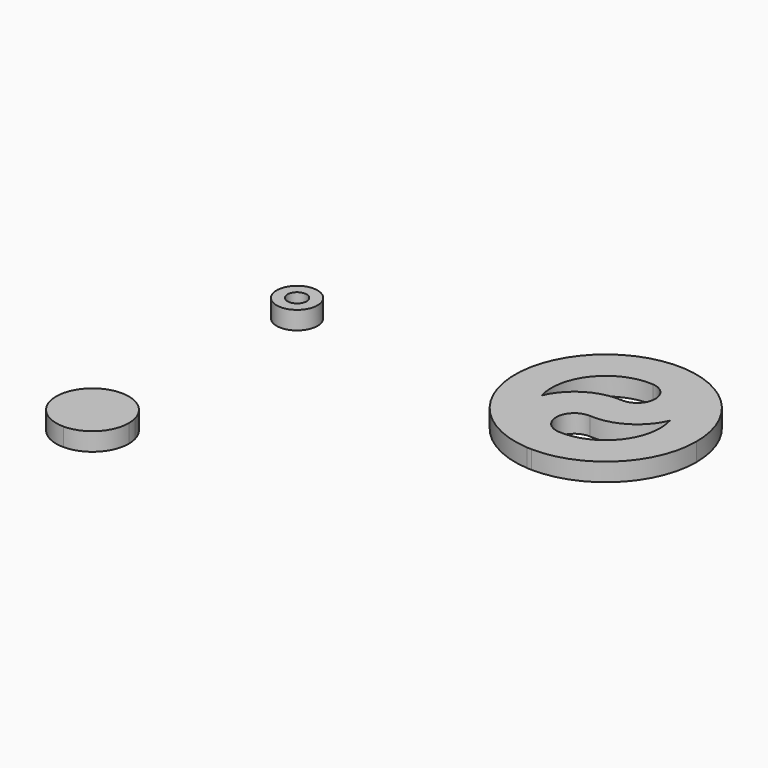
from build123d import *

# Parameters (mm, degrees)
F0_R     = 5.622862
F0_R_2   = 2.622862
F1_DEPTH = 5


with BuildPart() as f1:
    # F0 (on Top) → F1 (new body)
    with BuildSketch(Plane.XY):
        with Locations((-83.946779, 28.06069)):
            Circle(F0_R)
        with Locations((-83.946779, 28.06069)):
            Circle(F0_R_2, mode=Mode.SUBTRACT)
        with BuildLine():
            ThreePointArc((-76.056312, -37.682603), (-79.615046, -32.276909), (-85.738771, -30.182603))
            ThreePointArc((-85.738771, -30.182603), (-80.738771, -35.182603), (-85.738771, -40.182603))
            ThreePointArc((-85.738771, -40.182603), (-90.738771, -45.182603), (-85.738771, -50.182603))
            ThreePointArc((-85.738771, -50.182603), (-78.667703, -47.253671), (-75.738771, -40.182603))
            ThreePointArc((-75.738771, -40.182603), (-75.818474, -38.92256), (-76.056312, -37.682603))
        make_face()
        with BuildLine():
            ThreePointArc((-85.738771, -40.182603), (-80.738771, -35.182603), (-85.738771, -30.182603))
            ThreePointArc((-85.738771, -30.182603), (-95.738771, -40.182603), (-85.738771, -50.182603))
            ThreePointArc((-85.738771, -50.182603), (-90.738771, -45.182603), (-85.738771, -40.182603))
        make_face()
        with BuildLine():
            ThreePointArc((15.429841, 42.199068), (17.8063, 20.333006), (-1.339583, 9.506769))
            ThreePointArc((-1.339583, 9.506769), (-10.641535, 20.159172), (0.010867, 29.461124))
            ThreePointArc((0.010867, 29.461124), (10.663269, 38.763077), (1.361316, 49.41548))
            ThreePointArc((1.361316, 49.41548), (-17.784567, 38.589243), (-15.408108, 16.723181))
            ThreePointArc((-15.408108, 16.723181), (-10.629699, 8.272704), (-1.677196, 4.518181))
            ThreePointArc((-1.677196, 4.518181), (-1.042922, 4.488725), (-0.40797, 4.486138))
            Line((-0.40797, 4.486138), (-0.408094, 4.464635))
            ThreePointArc((-0.408094, 4.464635), (17.539785, 11.635945), (25.010867, 29.461124))
            ThreePointArc((25.010867, 29.461124), (18.275608, 46.531544), (1.698928, 54.404068))
            ThreePointArc((1.698928, 54.404068), (10.651432, 50.649546), (15.429841, 42.199068))
        make_face()
        with BuildLine():
            ThreePointArc((0.348479, 34.449713), (-8.477869, 32.288206), (-14.436605, 25.427448))
            ThreePointArc((-14.436605, 25.427448), (-11.623869, 38.928592), (1.023704, 44.426891))
            ThreePointArc((1.023704, 44.426891), (5.67468, 39.10069), (0.348479, 34.449713))
        make_face(mode=Mode.SUBTRACT)
        with BuildLine():
            ThreePointArc((0.010867, 29.461124), (-10.641535, 20.159172), (-1.339583, 9.506769))
            ThreePointArc((-1.339583, 9.506769), (17.8063, 20.333006), (15.429841, 42.199068))
            ThreePointArc((15.429841, 42.199068), (10.651432, 50.649546), (1.698928, 54.404068))
            ThreePointArc((1.698928, 54.404068), (-24.932077, 31.149186), (-1.677196, 4.518181))
            ThreePointArc((-1.677196, 4.518181), (-10.629699, 8.272704), (-15.408108, 16.723181))
            ThreePointArc((-15.408108, 16.723181), (-17.784567, 38.589243), (1.361316, 49.41548))
            ThreePointArc((1.361316, 49.41548), (10.663269, 38.763077), (0.010867, 29.461124))
        make_face()
        with BuildLine():
            ThreePointArc((-0.326746, 24.472536), (8.499603, 26.634043), (14.458339, 33.494801))
            ThreePointArc((14.458339, 33.494801), (11.645602, 19.993657), (-1.00197, 14.495358))
            ThreePointArc((-1.00197, 14.495358), (-5.652947, 19.821559), (-0.326746, 24.472536))
        make_face(mode=Mode.SUBTRACT)
    extrude(amount=F1_DEPTH)


solid = f1.part
